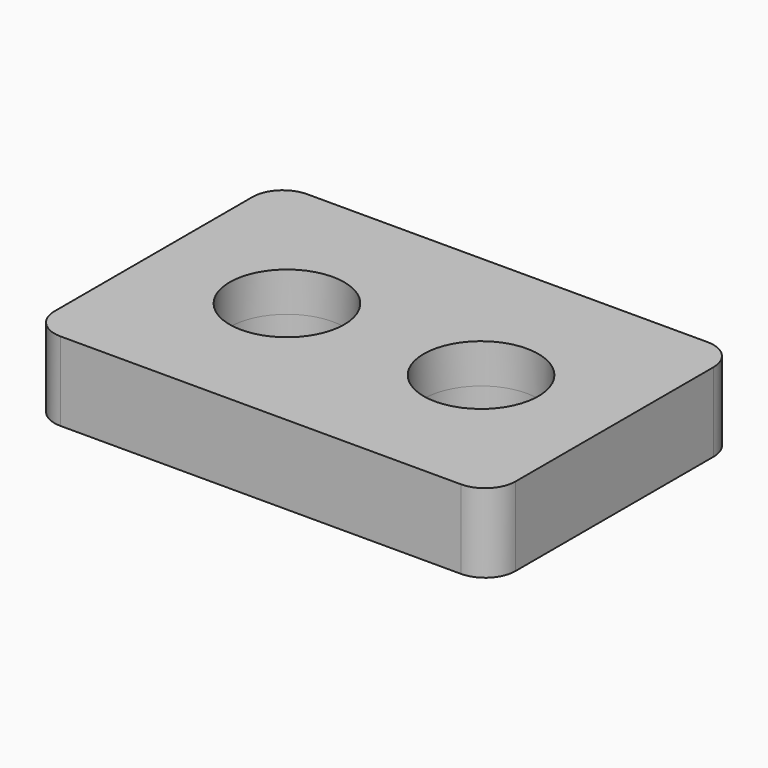
from build123d import *

# Parameters (mm, degrees)
F0_R     = 4.725
F1_DEPTH = 3.25


with BuildPart() as f1:
    # F0 (on Top) → F1 (new body, symmetric)
    with BuildSketch(Plane.XY):
        with BuildLine():
            Line((-16.5, -12.7), (16.5, -12.7))
            ThreePointArc((16.5, -12.7), (18.267767, -11.967767), (19, -10.2))
            Line((19, -10.2), (19, 10.2))
            ThreePointArc((19, 10.2), (18.267767, 11.967767), (16.5, 12.7))
            Line((16.5, 12.7), (-16.5, 12.7))
            ThreePointArc((-16.5, 12.7), (-18.267767, 11.967767), (-19, 10.2))
            Line((-19, 10.2), (-19, -10.2))
            ThreePointArc((-19, -10.2), (-18.267767, -11.967767), (-16.5, -12.7))
        make_face()
        with Locations((-8, 0)):
            Circle(F0_R, mode=Mode.SUBTRACT)
        with BuildLine():
            ThreePointArc((12.725, 0), (8, -4.725), (3.275, 0))
            ThreePointArc((3.275, 0), (8, 4.725), (12.725, 0))
        make_face(mode=Mode.SUBTRACT)
    extrude(amount=F1_DEPTH, both=True)


solid = f1.part
